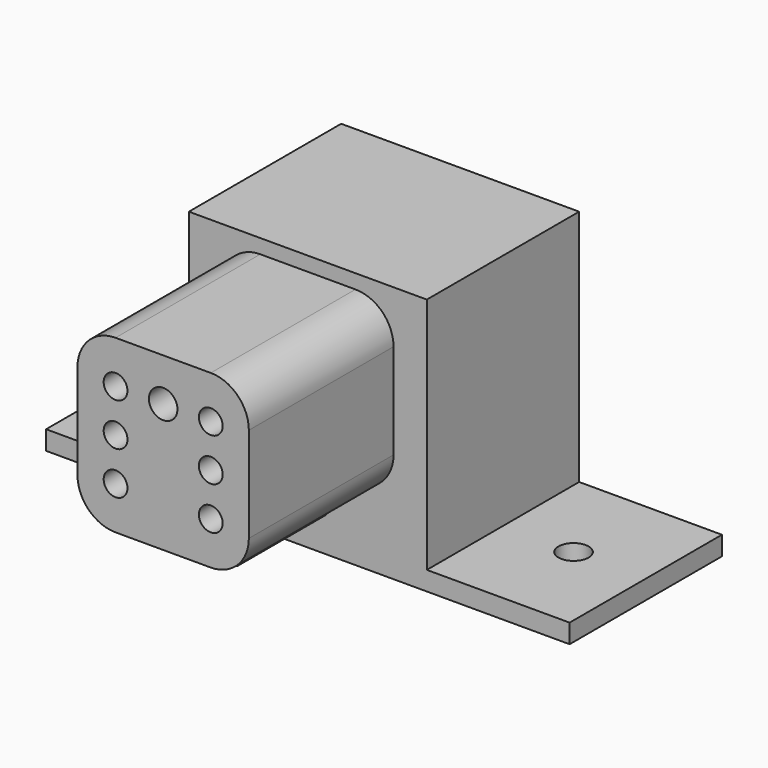
from build123d import *

# Parameters (mm, degrees)
F0_W      = 25
F0_H      = 20
F1_DEPTH  = 32
F2_R      = 1.25
F2_R_2    = 1.5
F3_DEPTH  = 19
F5_DEPTH  = 10
F7_DEPTH  = 11.5
F8_R      = 3
F8_R_2    = 1.5
F9_DEPTH  = 20.001
F10_R     = 1.25
F10_R_2   = 0.75
F11_DEPTH = 5
F12_R     = 2
F13_DEPTH = 3.5
F14_W     = 20
F14_H     = 5
F15_DEPTH = 25
F16_W     = 15
F16_H     = 20
F16_R     = 1.5875
F17_DEPTH = 2


with BuildPart() as f1:
    # F0 (on Top) → F1 (new body)
    with BuildSketch(Plane.XY):
        with Locations((12.5, 10)):
            Rectangle(F0_W, F0_H)
    extrude(amount=F1_DEPTH)

    # F2 (on face) → F3 (join)
    with BuildSketch(Plane.XZ):
        with BuildLine():
            Line((17.5, 30.5), (7.5, 30.5))
            ThreePointArc((7.5, 30.5), (4.671573, 29.328427), (3.5, 26.5))
            Line((3.5, 26.5), (3.5, 16.5))
            ThreePointArc((3.5, 16.5), (4.671573, 13.671573), (7.5, 12.5))
            Line((7.5, 12.5), (17.5, 12.5))
            ThreePointArc((17.5, 12.5), (20.328427, 13.671573), (21.5, 16.5))
            Line((21.5, 16.5), (21.5, 26.5))
            ThreePointArc((21.5, 26.5), (20.328427, 29.328427), (17.5, 30.5))
        make_face()
        with Locations((7.5, 17)):
            Circle(F2_R, mode=Mode.SUBTRACT)
        with Locations((17.5, 17)):
            Circle(F2_R, mode=Mode.SUBTRACT)
        with Locations((7.5, 21.5)):
            Circle(F2_R, mode=Mode.SUBTRACT)
        with Locations((7.5, 26)):
            Circle(F2_R, mode=Mode.SUBTRACT)
        with Locations((12.5, 26)):
            Circle(F2_R_2, mode=Mode.SUBTRACT)
        with Locations((17.5, 21.5)):
            Circle(F2_R, mode=Mode.SUBTRACT)
        with Locations((17.5, 26)):
            Circle(F2_R, mode=Mode.SUBTRACT)
    extrude(amount=F3_DEPTH)

    # F4 (on face) → F5 (cut)
    with BuildSketch(Plane(origin=(0, 20, 0), x_dir=(-1, 0, 0), z_dir=(0, 1, 0))):
        with BuildLine():
            Line((-7.5, 30.5), (-17.5, 30.5))
            ThreePointArc((-17.5, 30.5), (-20.328427, 29.328427), (-21.5, 26.5))
            Line((-21.5, 26.5), (-21.5, 16.5))
            ThreePointArc((-21.5, 16.5), (-20.328427, 13.671573), (-17.5, 12.5))
            Line((-17.5, 12.5), (-7.5, 12.5))
            ThreePointArc((-7.5, 12.5), (-4.671573, 13.671573), (-3.5, 16.5))
            Line((-3.5, 16.5), (-3.5, 26.5))
            ThreePointArc((-3.5, 26.5), (-4.671573, 29.328427), (-7.5, 30.5))
        make_face()
    extrude(amount=-F5_DEPTH, mode=Mode.SUBTRACT)

    # F6 (on face) → F7 (join)
    with BuildSketch(Plane.XZ):
        with BuildLine():
            Line((15, 12.5), (10, 12.5))
            Line((10, 12.5), (10.445252, 8.937983))
            ThreePointArc((10.445252, 8.937983), (10.61049, 8.625161), (10.941391, 8.5))
            Line((10.941391, 8.5), (14.058609, 8.5))
            ThreePointArc((14.058609, 8.5), (14.38951, 8.625161), (14.554748, 8.937983))
            Line((14.554748, 8.937983), (15, 12.5))
        make_face()
    extrude(amount=F7_DEPTH)

    # F8 (on face) → F9 (cut, through all)
    with BuildSketch(Plane.XZ):
        with Locations((12.5, 26)):
            Circle(F8_R)
        with Locations((7.5, 26)):
            Circle(F8_R_2)
        with Locations((7.5, 21.5)):
            Circle(F8_R_2)
        with Locations((7.5, 17)):
            Circle(F8_R_2)
        with Locations((17.5, 26)):
            Circle(F8_R_2)
        with Locations((17.5, 21.5)):
            Circle(F8_R_2)
        with Locations((17.5, 17)):
            Circle(F8_R_2)
    extrude(amount=-F9_DEPTH, mode=Mode.SUBTRACT)

    # F10 (on face) → F11 (join)
    with BuildSketch(Plane.XZ):
        with Locations((7.5, 26)):
            Circle(F10_R)
        with Locations((7.5, 26)):
            Circle(F10_R_2, mode=Mode.SUBTRACT)
        with Locations((7.5, 21.5)):
            Circle(F10_R)
        with Locations((7.5, 21.5)):
            Circle(F10_R_2, mode=Mode.SUBTRACT)
        with Locations((7.5, 17)):
            Circle(F10_R)
        with Locations((7.5, 17)):
            Circle(F10_R_2, mode=Mode.SUBTRACT)
        with Locations((17.5, 26)):
            Circle(F10_R)
        with Locations((17.5, 26)):
            Circle(F10_R_2, mode=Mode.SUBTRACT)
        with Locations((17.5, 21.5)):
            Circle(F10_R)
        with Locations((17.5, 21.5)):
            Circle(F10_R_2, mode=Mode.SUBTRACT)
        with Locations((17.5, 17)):
            Circle(F10_R)
        with Locations((17.5, 17)):
            Circle(F10_R_2, mode=Mode.SUBTRACT)
    extrude(amount=F11_DEPTH)

    # F12 (on face) → F13 (cut, through all)
    with BuildSketch(Plane(origin=(0, 0, 0), x_dir=(0, -1, 0), z_dir=(-1, 0, 0))):
        with Locations((-15, 21)):
            Circle(F12_R)
    extrude(amount=-F13_DEPTH, mode=Mode.SUBTRACT)

    # F14 (on face) → F15 (cut)
    with BuildSketch(Plane(origin=(0, 0, 0), x_dir=(0, -1, 0), z_dir=(-1, 0, 0))):
        with Locations((-10, 2.5)):
            Rectangle(F14_W, F14_H)
    extrude(amount=-F15_DEPTH, mode=Mode.SUBTRACT)

    # F16 (on face) → F17 (join)
    with BuildSketch(Plane(origin=(0, 0, 5), x_dir=(1, 0, 0), z_dir=(0, 0, -1))):
        with Locations((32.5, -10)):
            Rectangle(F16_W, F16_H)
        with Locations((32.4125, -10)):
            Circle(F16_R, mode=Mode.SUBTRACT)
        with Locations((-7.5, -10)):
            Rectangle(F16_W, F16_H)
        with Locations((-7.4125, -10)):
            Circle(F16_R, mode=Mode.SUBTRACT)
    extrude(amount=-F17_DEPTH)


solid = f1.part
